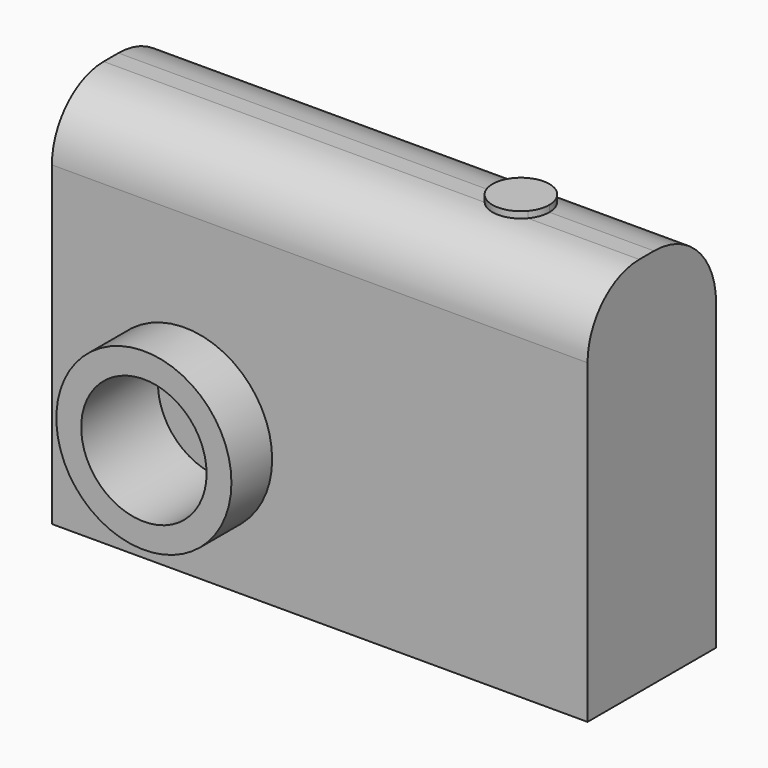
from build123d import *

# Parameters (mm, degrees)
F0_W      = 100
F0_H      = 30
F1_DEPTH  = 71.1
F2_R      = 12.0710678119
F3_R      = 14.4852813742
F4_R      = 16.3433184156
F5_DEPTH  = 14.5
F6_R      = 11.1772790222
F7_DEPTH  = 5.8
F8_R      = 11.70616328
F9_DEPTH  = 7.2
F10_DEPTH = 30.1
F11_DEPTH = 25
F12_DEPTH = 25
F13_DEPTH = 5
F15_DEPTH = 1.2


with BuildPart() as f1:
    # F0 (on Top) → F1 (new body)
    with BuildSketch(Plane.XY):
        with Locations((-23.7509091896, -13.5745047592)):
            Rectangle(F0_W, F0_H)
    extrude(amount=F1_DEPTH)

    # F2
    f2_edges = [f1.edges().sort_by_distance(p)[0] for p in [
        (-23.750909, -28.574505, 71.1),
    ]]
    fillet(f2_edges, radius=F2_R)

    # F3
    f3_edges = [f1.edges().sort_by_distance(p)[0] for p in [
        (-23.750909, 1.425495, 71.1),
    ]]
    fillet(f3_edges, radius=F3_R)

    # F4 (on face) → F5 (join)
    with BuildSketch(Plane.XZ.offset(28.5745047592)):
        with Locations((-48.9764623344, 24.0149181336)):
            Circle(F4_R)
    extrude(amount=F5_DEPTH)

    # F6 (on face) → F7 (join)
    with BuildSketch(Plane.XZ.offset(43.0745047592)):
        with Locations((-48.9764623344, 24.0149181336)):
            Circle(F6_R)
    extrude(amount=-F7_DEPTH)

    # F8 (on face) → F9 (join)
    with BuildSketch(Plane.XZ.offset(43.0745047592)):
        with Locations((-48.9764623344, 24.0149181336)):
            Circle(F8_R)
    extrude(amount=F9_DEPTH)

    # F10 (cut): a face of the model
    f10_faces = [f1.faces().sort_by_distance(p)[0] for p in [
        (-48.9764623344, -50.2745047592, 24.0149181336),
    ]]
    extrude(f10_faces, amount=-F10_DEPTH, mode=Mode.SUBTRACT)

    # F11 (add): a face of the model
    f11_faces = [f1.faces().sort_by_distance(p)[0] for p in [
        (-19.5707016042, -28.5745047592, 30.4258138837),
    ]]
    extrude(f11_faces, amount=F11_DEPTH)

    # F12 (cut): a face of the model
    f12_faces = [f1.faces().sort_by_distance(p)[0] for p in [
        (-19.5707016042, -53.5745047592, 30.4258138837),
    ]]
    extrude(f12_faces, amount=-F12_DEPTH, mode=Mode.SUBTRACT)

    # F13 (cut): a face of the model
    f13_faces = [f1.faces().sort_by_distance(p)[0] for p in [
        (-64.8575218988, -43.0745047592, 24.0149181336),
    ]]
    extrude(f13_faces, amount=-F13_DEPTH, mode=Mode.SUBTRACT)

    # F14 (on face) → F15 (join)
    with BuildSketch(Plane.XY.offset(71.1)):
        with BuildLine():
            ThreePointArc((5.4310929405, -16.5034369473), (6.3738933306, -14.8950718744), (6.7016692178, -13.0597861334))
            Line((6.7016692178, -13.0597861334), (-3.9022553523, -13.0597861334))
            ThreePointArc((-3.9022553523, -13.0597861334), (-3.5744794652, -14.8950718744), (-2.6316790751, -16.5034369473))
            Line((-2.6316790751, -16.5034369473), (5.4310929405, -16.5034369473))
        make_face()
        with BuildLine():
            Line((-3.9022553523, -13.0597861334), (6.7016692178, -13.0597861334))
            ThreePointArc((6.7016692178, -13.0597861334), (1.3997069327, -7.7578238484), (-3.9022553523, -13.0597861334))
        make_face()
        with BuildLine():
            ThreePointArc((-2.6316790751, -16.5034369473), (1.3997069327, -18.3617484184), (5.4310929405, -16.5034369473))
            Line((5.4310929405, -16.5034369473), (-2.6316790751, -16.5034369473))
        make_face()
    extrude(amount=F15_DEPTH)


solid = f1.part
